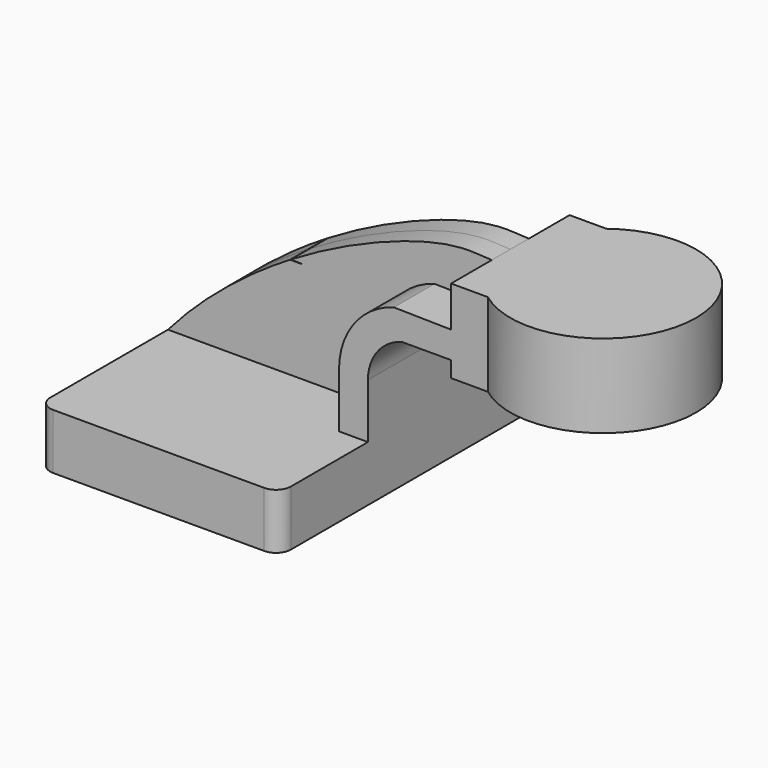
from build123d import *

# Parameters (mm, degrees)
F1_DEPTH = 63.5
F2_DEPTH = 25.4
F3_DEPTH = 7.9375
F5_R     = 5.08


with BuildPart() as f1:
    # F0 (on Front) → F1 (new body, symmetric)
    with BuildSketch(Plane.XZ):
        Polygon((41.275, -9.525), (41.275, 9.525), (31.3690012749, 9.525), (-41.275, 9.525), (-41.275, -9.525), align=None)
    extrude(amount=F1_DEPTH, both=True)

    # F0 (on Front) → F2 (join, symmetric)
    with BuildSketch(Plane.XZ):
        with BuildLine():
            Line((31.3690012749, 9.525), (41.275, 9.525))
            Line((41.275, 9.525), (41.275, 28.2690877087))
            ThreePointArc((41.275, 28.2690877087), (44.4961665848, 37.8553343621), (52.8524645544, 43.5513262258))
            Line((52.8524645544, 43.5513262258), (69.7987371812, 43.5513262258))
            Line((69.7987371812, 43.5513262258), (69.7987371812, 52.7542612036))
            Line((69.7987371812, 52.7542612036), (50.1708027815, 53.0874418332))
            ThreePointArc((50.1708027815, 53.0874418332), (36.6001755499, 43.837151504), (31.3690012749, 28.2690877087))
            Line((31.3690012749, 28.2690877087), (31.3690012749, 9.525))
        make_face()
        Polygon((69.7987371812, 52.7542612036), (69.7987371812, 43.5513262258), (69.7987371812, 38.1), (101.6512628188, 38.1), (101.6512628188, 66.675), (69.7987371812, 66.675), align=None)
    extrude(amount=F2_DEPTH, both=True)

    # F0 (on Front) → F3 (join, symmetric)
    with BuildSketch(Plane.XZ):
        with BuildLine():
            Line((-41.275, 9.525), (31.3690012749, 9.525))
            Line((31.3690012749, 9.525), (31.3690012749, 28.2690877087))
            ThreePointArc((31.3690012749, 28.2690877087), (36.6001755499, 43.837151504), (50.1708027815, 53.0874418332))
            Line((50.1708027815, 53.0874418332), (69.7987371812, 52.7542612036))
            Line((69.7987371812, 52.7542612036), (69.7987371812, 66.675))
            add(Edge.make_bspline(
                [(0.9200547216, 44.4546873168), (21.9732050528, 57.1926332926), (55.5999299853, 69.1414192126), (66.4309648739, 66.6444715672), (69.7987371812, 66.675)],
                knots=[0.3021299469, 0.3021299469, 0.3021299469, 0.3021299469, 0.7310163448, 1, 1, 1, 1], degree=3))
            add(Edge.make_bspline(
                [(0.9200547224, 44.4546873157), (5.3862455156, 44.3452942524), (7.7617773977, 44.1589559848), (0.6045961391, 44.2634363016)],
                knots=[6.1143383921, 6.1143383921, 6.1143383921, 6.1143383921, 12.0207626888, 12.0207626888, 12.0207626888, 12.0207626888], degree=3))
            add(Edge.make_bspline(
                [(-41.275, 9.525), (-29.0215326785, 23.7296115654), (-14.1237601662, 35.3160902289), (0.6045961391, 44.2634363016)],
                knots=[0, 0, 0, 0, 0.2999880046, 0.2999880046, 0.2999880046, 0.2999880046], degree=3))
        make_face()
    extrude(amount=F3_DEPTH, both=True)

    # F0 (on Front) → F4 (revolve)
    with BuildSketch(Plane.XZ):
        Polygon((69.7987371812, 52.7542612036), (69.7987371812, 43.5513262258), (69.7987371812, 38.1), (101.6512628188, 38.1), (101.6512628188, 66.675), (69.7987371812, 66.675), align=None)
    revolve(axis=Axis((101.6512628188, 0, 52.3875), (0, 0, -1)))

    # F5
    f5_edges = [f1.edges().sort_by_distance(p)[0] for p in [
        (-41.275, -63.5, 0),
        (41.275, -63.5, 0),
        (-41.275, 63.5, 0),
        (41.275, 63.5, 0),
    ]]
    fillet(f5_edges, radius=F5_R)


solid = f1.part
